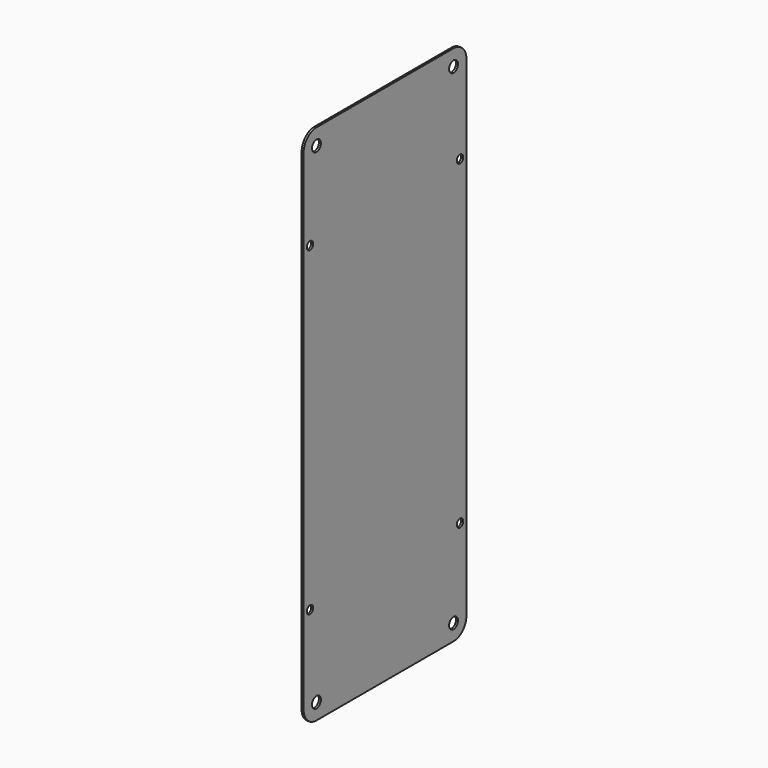
from build123d import *

# Parameters (mm, degrees)
SKETCH_W      = 101
SKETCH_H      = 259
PAD_DEPTH     = 1
SKETCH001_R   = 2.75
SKETCH001_R_2 = 2
POCKET_DEPTH  = 1.001
FILLET_R      = 8
FILLET001_R   = 8
FILLET002_R   = 8
FILLET003_R   = 8


with BuildPart() as part:
    # Sketch → Pad (new body)
    with BuildSketch(Plane.YZ):
        Rectangle(SKETCH_W, SKETCH_H)
    extrude(amount=PAD_DEPTH)

    # Sketch001 (on Face6 of Pad) → Pocket (cut, through all)
    with BuildSketch(Plane.YZ.offset(1)):
        with Locations((42.5, 121.5)):
            Circle(SKETCH001_R)
        with Locations((-42.5, 121.5)):
            Circle(SKETCH001_R)
        with Locations((-42.5, -121.5)):
            Circle(SKETCH001_R)
        with Locations((42.5, -121.5)):
            Circle(SKETCH001_R)
        with Locations((-46.5, 79.5)):
            Circle(SKETCH001_R_2)
        with Locations((46.5, 79.5)):
            Circle(SKETCH001_R_2)
        with Locations((-46.5, -79.5)):
            Circle(SKETCH001_R_2)
        with Locations((46.5, -79.5)):
            Circle(SKETCH001_R_2)
    extrude(amount=-POCKET_DEPTH, mode=Mode.SUBTRACT)

    # Fillet
    fillet_edges = [part.edges().sort_by_distance(p)[0] for p in [
        (0.5, 50.5, 129.5),
    ]]
    fillet(fillet_edges, radius=FILLET_R)

    # Fillet001
    fillet001_edges = [part.edges().sort_by_distance(p)[0] for p in [
        (0.5, -50.5, 129.5),
    ]]
    fillet(fillet001_edges, radius=FILLET001_R)

    # Fillet002
    fillet002_edges = [part.edges().sort_by_distance(p)[0] for p in [
        (0.5, 50.5, -129.5),
    ]]
    fillet(fillet002_edges, radius=FILLET002_R)

    # Fillet003
    fillet003_edges = [part.edges().sort_by_distance(p)[0] for p in [
        (0.5, -50.5, -129.5),
    ]]
    fillet(fillet003_edges, radius=FILLET003_R)


solid = part.part
